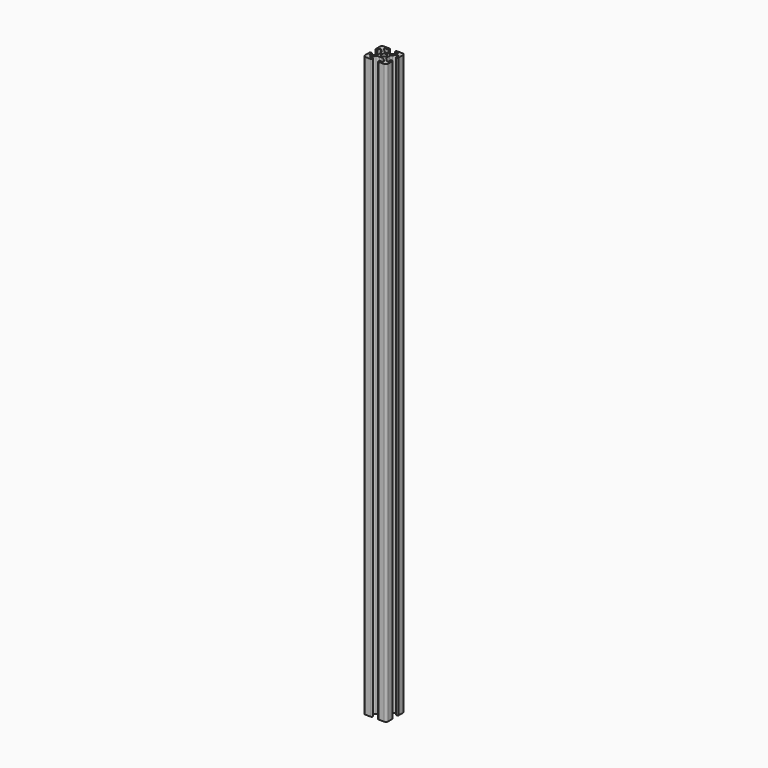
from build123d import *

# Parameters (mm, degrees)
F1_DEPTH = 500
F2_R     = 2.15
F3_DEPTH = 500


with BuildPart() as f1:
    # F0 (on Top) → F1 (new body)
    with BuildSketch(Plane.XY):
        with BuildLine():
            ThreePointArc((4.52868, -3.255887), (3.878361, -2.282617), (3.65, -1.134567))
            Line((3.65, -1.134567), (3.65, 1.134567))
            ThreePointArc((3.65, 1.134567), (3.878361, 2.282617), (4.52868, 3.255887))
            Line((4.52868, 3.255887), (6.868457, 5.595664))
            ThreePointArc((6.868457, 5.595664), (7.718493, 5.764747), (8.2, 5.044121))
            Line((8.2, 5.044121), (8.200001, 2.875))
            ThreePointArc((8.200001, 2.875), (8.287869, 2.662868), (8.500001, 2.575))
            Line((8.500001, 2.575), (9.2, 2.575))
            ThreePointArc((9.2, 2.575), (9.765685, 2.809315), (10, 3.375))
            Line((10, 3.375), (10, 8))
            ThreePointArc((10, 8), (9.414214, 9.414214), (8, 10))
            Line((8, 10), (3.375, 10))
            ThreePointArc((3.375, 10), (2.809315, 9.765685), (2.575, 9.2))
            Line((2.575, 9.2), (2.575, 8.500001))
            ThreePointArc((2.575, 8.500001), (2.662868, 8.287869), (2.875, 8.200001))
            Line((2.875, 8.200001), (5.044121, 8.2))
            ThreePointArc((5.044121, 8.2), (5.764747, 7.718493), (5.595664, 6.868457))
            Line((5.595664, 6.868457), (3.255887, 4.52868))
            ThreePointArc((3.255887, 4.52868), (2.282617, 3.878361), (1.134567, 3.65))
            Line((1.134567, 3.65), (-1.134567, 3.65))
            ThreePointArc((-1.134567, 3.65), (-2.282617, 3.878361), (-3.255887, 4.52868))
            Line((-3.255887, 4.52868), (-5.595664, 6.868457))
            ThreePointArc((-5.595664, 6.868457), (-5.764747, 7.718493), (-5.044121, 8.2))
            Line((-5.044121, 8.2), (-2.875, 8.200001))
            ThreePointArc((-2.875, 8.200001), (-2.662868, 8.287869), (-2.575, 8.500001))
            Line((-2.575, 8.500001), (-2.575, 9.2))
            ThreePointArc((-2.575, 9.2), (-2.809315, 9.765685), (-3.375, 10))
            Line((-3.375, 10), (-8, 10))
            ThreePointArc((-8, 10), (-9.414214, 9.414214), (-10, 8))
            Line((-10, 8), (-10, 3.375))
            ThreePointArc((-10, 3.375), (-9.765685, 2.809315), (-9.2, 2.575))
            Line((-9.2, 2.575), (-8.500001, 2.575))
            ThreePointArc((-8.500001, 2.575), (-8.287869, 2.662868), (-8.200001, 2.875))
            Line((-8.200001, 2.875), (-8.2, 5.044121))
            ThreePointArc((-8.2, 5.044121), (-7.718493, 5.764747), (-6.868457, 5.595664))
            Line((-6.868457, 5.595664), (-4.52868, 3.255887))
            ThreePointArc((-4.52868, 3.255887), (-3.878361, 2.282617), (-3.65, 1.134567))
            Line((-3.65, 1.134567), (-3.65, -1.134567))
            ThreePointArc((-3.65, -1.134567), (-3.878361, -2.282617), (-4.52868, -3.255887))
            Line((-4.52868, -3.255887), (-6.868457, -5.595664))
            ThreePointArc((-6.868457, -5.595664), (-7.718493, -5.764747), (-8.2, -5.044121))
            Line((-8.2, -5.044121), (-8.200001, -2.875))
            ThreePointArc((-8.200001, -2.875), (-8.287869, -2.662868), (-8.500001, -2.575))
            Line((-8.500001, -2.575), (-9.2, -2.575))
            ThreePointArc((-9.2, -2.575), (-9.765685, -2.809315), (-10, -3.375))
            Line((-10, -3.375), (-10, -8))
            ThreePointArc((-10, -8), (-9.414214, -9.414214), (-8, -10))
            Line((-8, -10), (-3.375, -10))
            ThreePointArc((-3.375, -10), (-2.809315, -9.765685), (-2.575, -9.2))
            Line((-2.575, -9.2), (-2.575, -8.500001))
            ThreePointArc((-2.575, -8.500001), (-2.662868, -8.287869), (-2.875, -8.200001))
            Line((-2.875, -8.200001), (-5.044121, -8.2))
            ThreePointArc((-5.044121, -8.2), (-5.764747, -7.718493), (-5.595664, -6.868457))
            Line((-5.595664, -6.868457), (-3.255887, -4.52868))
            ThreePointArc((-3.255887, -4.52868), (-2.282617, -3.878361), (-1.134567, -3.65))
            Line((-1.134567, -3.65), (1.134567, -3.65))
            ThreePointArc((1.134567, -3.65), (2.282617, -3.878361), (3.255887, -4.52868))
            Line((3.255887, -4.52868), (5.595664, -6.868457))
            ThreePointArc((5.595664, -6.868457), (5.764747, -7.718493), (5.044121, -8.2))
            Line((5.044121, -8.2), (2.875, -8.200001))
            ThreePointArc((2.875, -8.200001), (2.662868, -8.287869), (2.575, -8.500001))
            Line((2.575, -8.500001), (2.575, -9.2))
            ThreePointArc((2.575, -9.2), (2.809315, -9.765685), (3.375, -10))
            Line((3.375, -10), (8, -10))
            ThreePointArc((8, -10), (9.414214, -9.414214), (10, -8))
            Line((10, -8), (10, -3.375))
            ThreePointArc((10, -3.375), (9.765685, -2.809315), (9.2, -2.575))
            Line((9.2, -2.575), (8.500001, -2.575))
            ThreePointArc((8.500001, -2.575), (8.287869, -2.662868), (8.200001, -2.875))
            Line((8.200001, -2.875), (8.2, -5.044121))
            ThreePointArc((8.2, -5.044121), (7.718493, -5.764747), (6.868457, -5.595664))
            Line((6.868457, -5.595664), (4.52868, -3.255887))
        make_face()
    extrude(amount=F1_DEPTH)

    # F2 (on Top) → F3 (cut, through all)
    with BuildSketch(Plane.XY):
        Circle(F2_R)
    extrude(amount=F3_DEPTH, mode=Mode.SUBTRACT)


solid = f1.part
